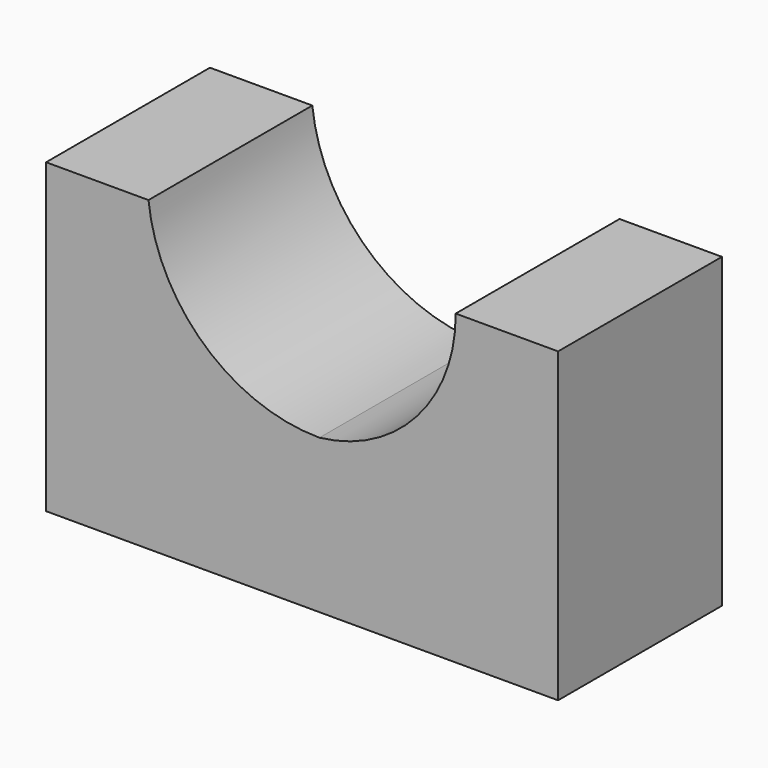
from build123d import *

# Parameters (mm, degrees)
F1_DEPTH = 25.4


with BuildPart() as f1:
    # F0 (on Front) → F1 (new body)
    with BuildSketch(Plane.XZ):
        with BuildLine():
            Line((-27.340101, 38.1), (-40.040101, 38.1))
            Line((-40.040101, 38.1), (-40.040101, 0))
            Line((-40.040101, 0), (23.459899, 0))
            Line((23.459899, 0), (23.459899, 38.1))
            Line((23.459899, 38.1), (10.759899, 38.1))
            ThreePointArc((10.759899, 38.1), (5.962591, 25.337594), (-6.135316, 19.05))
            ThreePointArc((-6.135316, 19.05), (-20.387907, 24.51192), (-27.340101, 38.1))
        make_face()
    extrude(amount=F1_DEPTH)


solid = f1.part
